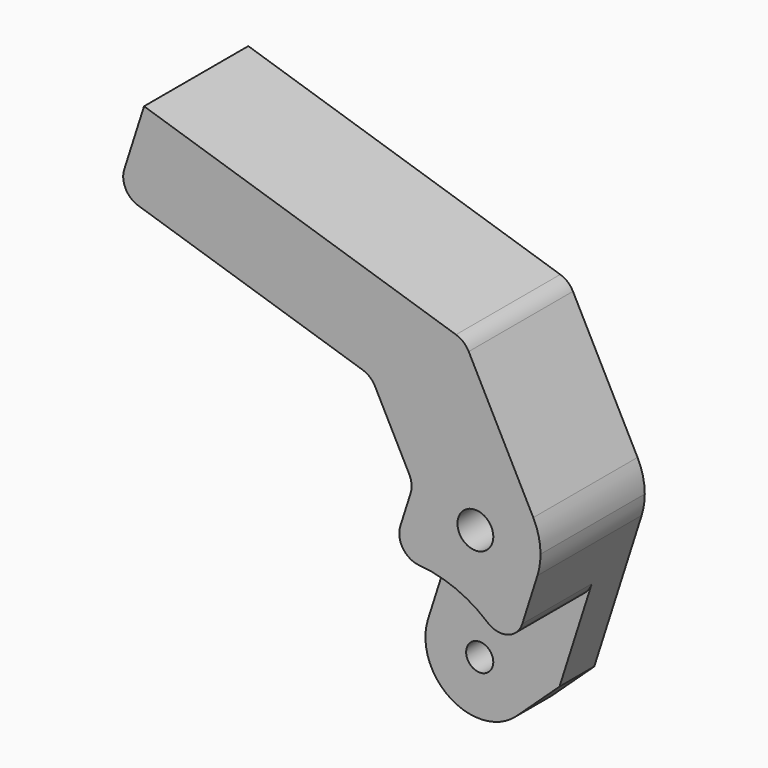
from build123d import *

# Parameters (mm, degrees)
F0_R     = 1.25
F1_DEPTH = 12
F2_R     = 11
F2_R_2   = 1.25
F3_DEPTH = 8
F4_R     = 2


with BuildPart() as f1:
    # F0 (on Front) → F1 (new body)
    with BuildSketch(Plane.XZ):
        with BuildLine():
            Line((5.8942117522, 24.8663670726), (17.3253891795, 21.2155887136))
            ThreePointArc((17.3253891795, 21.2155887136), (19.3737008087, 20.0819692322), (20.832276605, 18.2507864708))
            Line((20.832276605, 18.2507864708), (14.5059308294, 30.5141249497))
            Line((14.5059308294, 30.5141249497), (-15.0105899225, 39.9408245069))
            Line((-15.0105899225, 39.9408245069), (-17.4444421618, 32.3200395554))
            Line((-17.4444421618, 32.3200395554), (5.8942117522, 24.8663670726))
        make_face()
        with BuildLine():
            Line((5.8942117522, 24.8663670726), (9.7844112864, 17.3253891795))
            ThreePointArc((9.7844112864, 17.3253891795), (12.7492135292, 20.832276605), (17.3253891795, 21.2155887136))
            Line((17.3253891795, 21.2155887136), (5.8942117522, 24.8663670726))
        make_face()
        with BuildLine():
            ThreePointArc((17.3253891795, 21.2155887136), (12.7492135292, 20.832276605), (9.7844112864, 17.3253891795))
            ThreePointArc((9.7844112864, 17.3253891795), (9.5715291903, 16.4237065871), (9.5, 15.5))
            ThreePointArc((9.5, 15.5), (14.5762934129, 9.5715291903), (21.2155887136, 13.6746108205))
            ThreePointArc((21.2155887136, 13.6746108205), (21.4284708097, 14.5762934129), (21.5, 15.5))
            ThreePointArc((21.5, 15.5), (21.3306800474, 16.9153339482), (20.832276605, 18.2507864708))
            ThreePointArc((20.832276605, 18.2507864708), (19.3737008087, 20.0819692322), (17.3253891795, 21.2155887136))
        make_face()
        with BuildLine():
            ThreePointArc((17.15, 15.5), (15.5, 13.85), (13.85, 15.5))
            ThreePointArc((13.85, 15.5), (15.5, 17.15), (17.15, 15.5))
        make_face(mode=Mode.SUBTRACT)
        with BuildLine():
            ThreePointArc((4.7370094053, 1.5211576496), (10.2697554893, 4.9403923414), (14.5, 0))
            ThreePointArc((14.5, 0), (14.0831583376, -1.9986644672), (12.9021361391, -3.6640782867))
            Line((12.9021361391, -3.6640782867), (16.8483243992, 0))
            Line((16.8483243992, 0), (21.2155887136, 13.6746108205))
            ThreePointArc((21.2155887136, 13.6746108205), (14.5762934129, 9.5715291903), (9.5, 15.5))
            Line((9.5, 15.5), (9.2014362293, 15.5))
            Line((9.2014362293, 15.5), (4.7370094053, 1.5211576496))
        make_face()
        with BuildLine():
            ThreePointArc((12.9021361391, -3.6640782867), (14.0831583376, -1.9986644672), (14.5, 0))
            ThreePointArc((14.5, 0), (10.2697554893, 4.9403923414), (4.7370094053, 1.5211576496))
            ThreePointArc((4.7370094053, 1.5211576496), (6.819580417, -4.2208234811), (12.9021361391, -3.6640782867))
        make_face()
        with Locations((9.5, 0)):
            Circle(F0_R, mode=Mode.SUBTRACT)
        with BuildLine():
            Line((9.7844112864, 17.3253891795), (9.2014362293, 15.5))
            Line((9.2014362293, 15.5), (9.5, 15.5))
            ThreePointArc((9.5, 15.5), (9.5715291903, 16.4237065871), (9.7844112864, 17.3253891795))
        make_face()
    extrude(amount=F1_DEPTH)

    # F2 (on face) → F3 (cut)
    with BuildSketch(Plane.XZ.offset(12)):
        with Locations((9.5, 0)):
            Circle(F2_R)
        with Locations((9.5, 0)):
            Circle(F2_R_2, mode=Mode.SUBTRACT)
    extrude(amount=-F3_DEPTH, mode=Mode.SUBTRACT)

    # F4
    f4_edges = [f1.edges().sort_by_distance(p)[0] for p in [
        (-17.444442, -6, 32.32004),
        (5.894212, -6, 24.866367),
        (9.784411, -6, 17.325389),
        (7.717857, -8, 10.854675),
        (18.749677, -8, 5.953442),
        (14.505931, -6, 30.514125),
    ]]
    fillet(f4_edges, radius=F4_R)


solid = f1.part
